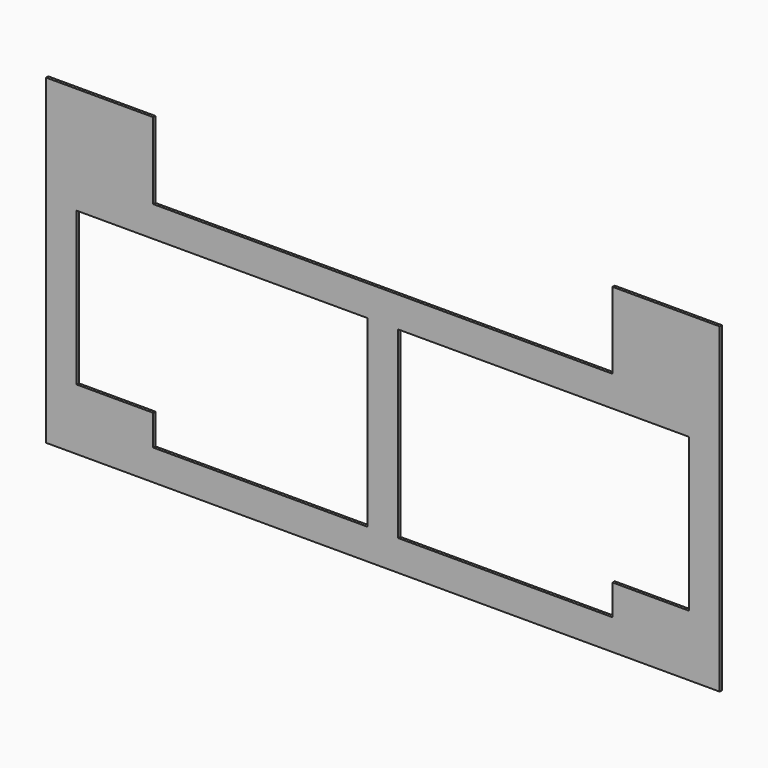
from build123d import *

# Parameters (mm, degrees)
F1_DEPTH = 9


with BuildPart() as f1:
    # F0 (on Front) → F1 (new body)
    with BuildSketch(Plane.XZ):
        Polygon((0, 1050), (0, 0), (2200, 0), (2200, 1050), (1850, 1050), (1850, 800), (350, 800), (350, 1050), align=None)
        Polygon((100, 200), (100, 700), (1050, 700), (1050, 100), (350, 100), (350, 200), align=None, mode=Mode.SUBTRACT)
        Polygon((1850, 100), (1150, 100), (1150, 700), (2100, 700), (2100, 200), (1850, 200), align=None, mode=Mode.SUBTRACT)
    extrude(amount=F1_DEPTH)


solid = f1.part
